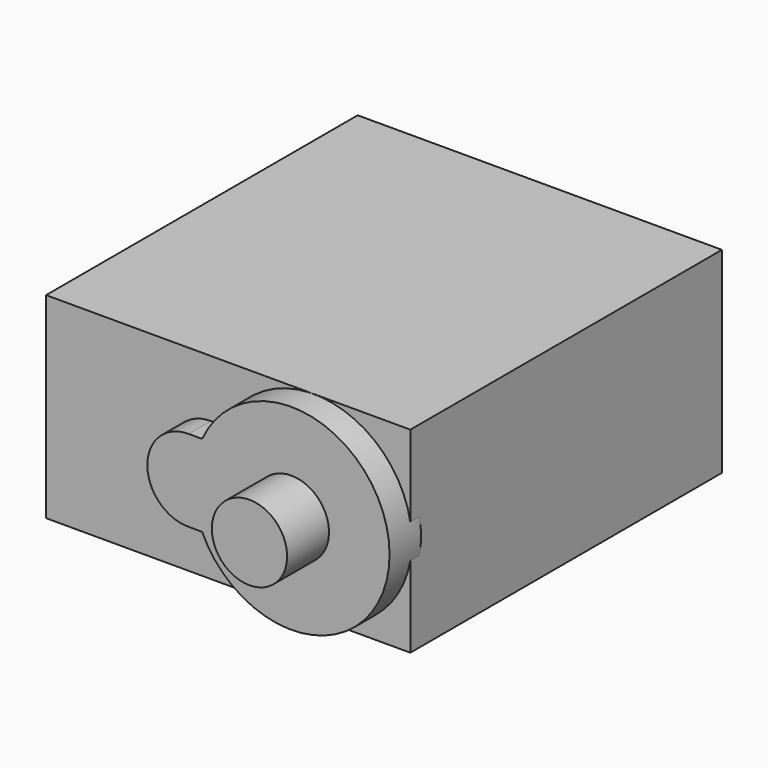
from build123d import *

# Parameters (mm, degrees)
SKETCH003_R             = 2.3
PAD003_DEPTH            = 2.4
CYLINDER_R              = 2.3
CYLINDER_DEPTH          = 3.2
SKETCH_W                = 22.257668
SKETCH_H                = 23.8
PAD_DEPTH               = 6
FUSION_PLACEMENT_ANGLE  = 180
BODY022_PLACEMENT_ANGLE = 180


with BuildPart() as body001:
    # Sketch003 → Pad003 (new body)
    with BuildSketch(Plane.XZ):
        with BuildLine():
            ThreePointArc((0.454409, 2.499884), (-11, -0.00031), (0.454668, -2.49932))
            Line((1.241684, -2.49932), (0.454668, -2.49932))
            ThreePointArc((1.241684, -2.49932), (3.799941, -0.017121), (1.275922, 2.499884))
            Line((1.275922, 2.499884), (0.454409, 2.499884))
        make_face()
        with Locations((-5, 0)):
            Circle(SKETCH003_R, mode=Mode.SUBTRACT)
    extrude(amount=PAD003_DEPTH)


with BuildPart() as body001_1:
    # Body001 placement: moved
    add(body001.part.moved(Location((-0.22, 13.6, 0))))


with BuildPart() as cylinder:
    # Cylinder → Cylinder (new body)
    with BuildSketch(Plane(origin=(-5.22, 13.6, 0), x_dir=(1, 0, 0), z_dir=(0, 1, 0))):
        Circle(CYLINDER_R)
    extrude(amount=CYLINDER_DEPTH)


with BuildPart() as obj1:
    # Sketch → Pad (new body, symmetric)
    with BuildSketch(Plane.XY):
        Rectangle(SKETCH_W, SKETCH_H)
    extrude(amount=PAD_DEPTH, both=True)

    # Fusion: union Body001, Cylinder
    add(body001_1.part)
    add(cylinder.part)


with BuildPart() as obj1_1:
    # Fusion placement: moved
    add(obj1.part.moved(Location((0, 13, 0))).rotate(Axis((0, 13, 0), (0, 1, 0)), FUSION_PLACEMENT_ANGLE))


with BuildPart() as obj1_2:
    # Clone placement: moved
    add(obj1_1.part.moved(Location((0, -1, 0))))


with BuildPart() as obj1_3:
    # Body022 placement: moved
    add(obj1_2.part.moved(Location((0, -1, 0))).rotate(Axis((0, -1, 0), (1, 0, 0)), BODY022_PLACEMENT_ANGLE))


solid = obj1_3.part
